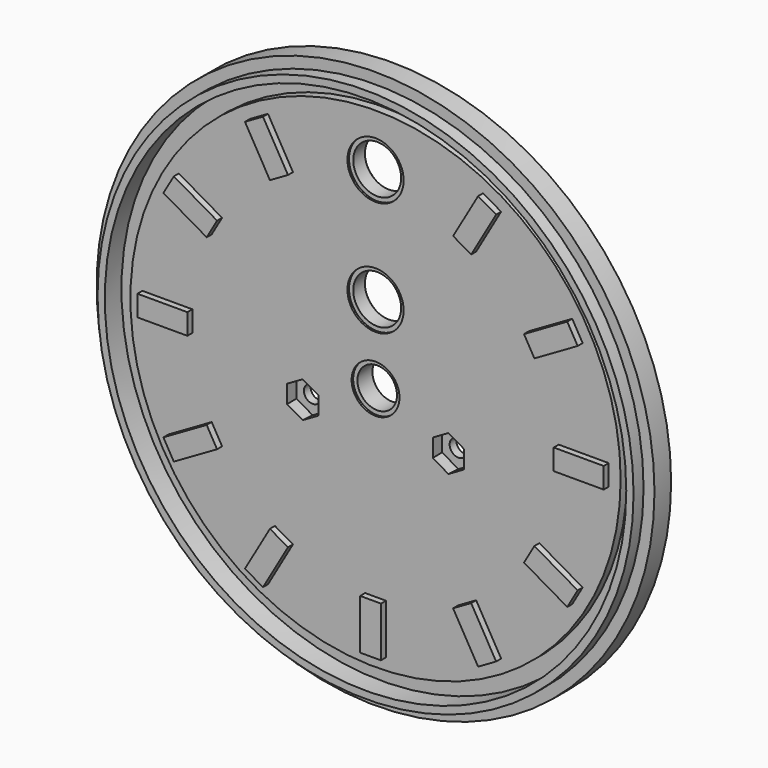
from build123d import *

# Parameters (mm, degrees)
F0_R      = 67
F1_DEPTH  = 5
F2_R      = 64.375
F2_R_2    = 62.625
F3_DEPTH  = 3
F2_R_3    = 58.875
F4_DEPTH  = 2
F5_R      = 4.75
F5_R_2    = 5.75
F5_R_3    = 2.1
F6_DEPTH  = 25
F7_R      = 5.75
F7_R_2    = 6.75
F8_DEPTH  = 0.5
F8_TAPER  = -3
F10_DEPTH = 3
F10_TAPER = -3
F11_R     = 6.75
F12_DEPTH = 1
F13_W     = 5
F13_H     = 12
F14_DEPTH = 1.5
F15_COUNT = 6
F15_ANGLE = 150
F16_COUNT = 6
F16_ANGLE = 150


with BuildPart() as f1:
    # F0 (on Front) → F1 (new body)
    with BuildSketch(Plane.XZ):
        Circle(F0_R)
    extrude(amount=F1_DEPTH)

    # F2 (on face) → F3 (join)
    with BuildSketch(Plane.XZ.offset(5)):
        Circle(F2_R)
        Circle(F2_R_2, mode=Mode.SUBTRACT)
    extrude(amount=F3_DEPTH)

    # F2 (on face) → F4 (cut)
    with BuildSketch(Plane.XZ.offset(5)):
        Circle(F2_R_2)
        Circle(F2_R_3, mode=Mode.SUBTRACT)
    extrude(amount=-F4_DEPTH, mode=Mode.SUBTRACT)

    # F5 (on face) → F6 (cut)
    with BuildSketch(Plane.XZ.offset(5)):
        Circle(F5_R)
        with Locations((0, 18.75)):
            Circle(F5_R_2)
        with Locations((0, 46.25)):
            Circle(F5_R_2)
        with Locations((17.5, -8)):
            Circle(F5_R_3)
        with Locations((-17.5, -8)):
            Circle(F5_R_3)
    extrude(amount=-F6_DEPTH, mode=Mode.SUBTRACT)

    # F7 (on face) → F8 (cut)
    with BuildSketch(Plane.XZ.offset(5)):
        Circle(F7_R)
        with Locations((0, 18.75)):
            Circle(F7_R_2)
        with Locations((0, 46.25)):
            Circle(F7_R_2)
    extrude(amount=-F8_DEPTH, taper=F8_TAPER, mode=Mode.SUBTRACT)

    # F9 (on face) → F10 (cut)
    with BuildSketch(Plane.XZ.offset(5)):
        Polygon((21.25, -10.1650635095), (21.25, -5.8349364905), (17.5, -3.6698729811), (13.75, -5.8349364905), (13.75, -10.1650635095), (17.5, -12.3301270189), align=None)
        Polygon((-17.5, -3.6698729811), (-21.25, -5.8349364905), (-21.25, -10.1650635095), (-17.5, -12.3301270189), (-13.75, -10.1650635095), (-13.75, -5.8349364905), align=None)
    extrude(amount=-F10_DEPTH, taper=F10_TAPER, mode=Mode.SUBTRACT)

    # F11 (on Front) → F12 (cut)
    with BuildSketch(Plane.XZ):
        with Locations((0, 46.25)):
            Circle(F11_R)
        with Locations((0, 18.75)):
            Circle(F11_R)
    extrude(amount=F12_DEPTH, mode=Mode.SUBTRACT)

    # F13 (on face) → F14 (join)
    with BuildSketch(Plane.XZ.offset(5)):
        with Locations((0, -50)):
            Rectangle(F13_W, F13_H)
    f14 = extrude(amount=F14_DEPTH)

    # F15: F14 ×6 about axis
    f15_axis = Axis((0, -5, 0), (0, -1, 0))
    for i in range(1, F15_COUNT):
        add(f14.rotate(f15_axis, i * F15_ANGLE / (F15_COUNT - 1)))

    # F16: F14 ×6 about axis
    f16_axis = Axis((0, -5, 0), (0, 1, 0))
    for i in range(1, F16_COUNT):
        add(f14.rotate(f16_axis, i * F16_ANGLE / (F16_COUNT - 1)))


solid = f1.part
